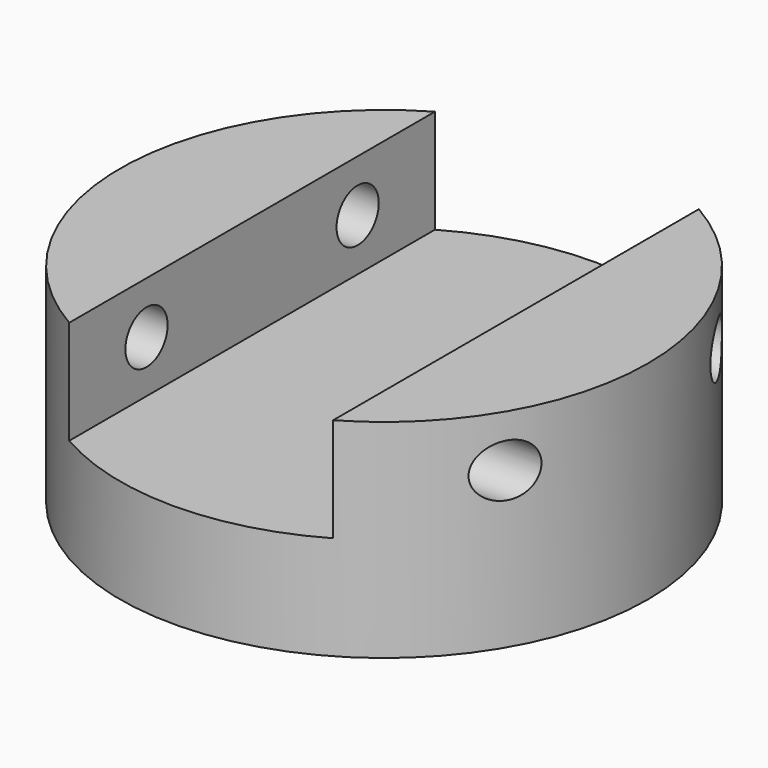
from build123d import *

# Parameters (mm, degrees)
F0_R          = 25.4
F1_DEPTH      = 20
F2_W          = 25.4
F2_H          = 55.2173810765
F3_DEPTH      = 10
F4_R          = 2.54
F5_DEPTH      = 25.4
F5_DEPTH_BACK = 25.4
F6_R          = 15
F7_DEPTH      = 15


with BuildPart() as f1:
    # F0 (on Top) → F1 (new body)
    with BuildSketch(Plane.XY):
        Circle(F0_R)
    extrude(amount=F1_DEPTH)

    # F2 (on face) → F3 (cut)
    with BuildSketch(Plane.XY.offset(20)):
        with Locations((0, -0.6558205932)):
            Rectangle(F2_W, F2_H)
    extrude(amount=-F3_DEPTH, mode=Mode.SUBTRACT)

    # F4 (on Right) → F5 (cut, two sides)
    with BuildSketch(Plane.YZ) as f5_sk:
        with Locations((-12.7, 15)):
            Circle(F4_R)
        with Locations((12.7, 15)):
            Circle(F4_R)
    extrude(amount=-F5_DEPTH, mode=Mode.SUBTRACT)
    extrude(f5_sk.sketch, amount=F5_DEPTH_BACK, mode=Mode.SUBTRACT)

    # F6 (on face) → F7 (join)
    with BuildSketch(Plane.XY.offset(10)):
        Circle(F6_R)
    extrude(amount=-F7_DEPTH)


solid = f1.part
